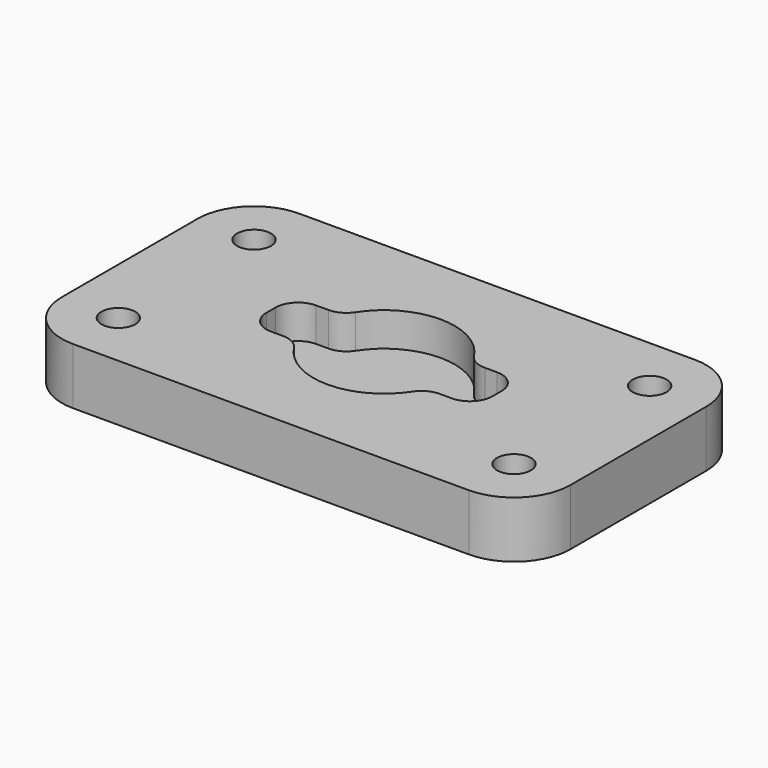
from build123d import *

# Parameters (mm, degrees)
F1_DEPTH = 20
F2_R     = 6
F3_DEPTH = 25
F5_DEPTH = 12


with BuildPart() as f1:
    # F0 (on Top) → F1 (new body)
    with BuildSketch(Plane.XY):
        with BuildLine():
            ThreePointArc((90, 30), (84.142136, 44.142136), (70, 50))
            Line((70, 50), (-70, 50))
            ThreePointArc((-70, 50), (-84.142136, 44.142136), (-90, 30))
            Line((-90, 30), (-90, -30))
            ThreePointArc((-90, -30), (-84.142136, -44.142136), (-70, -50))
            Line((-70, -50), (70, -50))
            ThreePointArc((70, -50), (84.142136, -44.142136), (90, -30))
            Line((90, -30), (90, 30))
        make_face()
    extrude(amount=-F1_DEPTH)

    # F2 (on face) → F3 (cut)
    with BuildSketch(Plane.XY):
        with Locations((70, 30)):
            Circle(F2_R)
        with Locations((-70, 30)):
            Circle(F2_R)
        with Locations((70, -30)):
            Circle(F2_R)
        with Locations((-70, -30)):
            Circle(F2_R)
    extrude(amount=-F3_DEPTH, mode=Mode.SUBTRACT)

    # F4 (on face) → F5 (cut)
    with BuildSketch(Plane.XY):
        with BuildLine():
            Line((27.658633, -10), (32, -10))
            ThreePointArc((32, -10), (37.656854, -7.656854), (40, -2))
            Line((40, -2), (40, 2))
            ThreePointArc((40, 2), (37.656854, 7.656854), (32, 10))
            Line((32, 10), (27.658633, 10))
            ThreePointArc((27.658633, 10), (23.844783, 10.967607), (20.95351, 13.636364))
            ThreePointArc((20.95351, 13.636364), (0, 25), (-20.95351, 13.636364))
            ThreePointArc((-20.95351, 13.636364), (-23.844783, 10.967607), (-27.658633, 10))
            Line((-27.658633, 10), (-32, 10))
            ThreePointArc((-32, 10), (-37.656854, 7.656854), (-40, 2))
            Line((-40, 2), (-40, -2))
            ThreePointArc((-40, -2), (-37.656854, -7.656854), (-32, -10))
            Line((-32, -10), (-27.658633, -10))
            ThreePointArc((-27.658633, -10), (-23.844783, -10.967607), (-20.95351, -13.636364))
            ThreePointArc((-20.95351, -13.636364), (0, -25), (20.95351, -13.636364))
            ThreePointArc((20.95351, -13.636364), (23.844783, -10.967607), (27.658633, -10))
        make_face()
    extrude(amount=-F5_DEPTH, mode=Mode.SUBTRACT)


solid = f1.part
